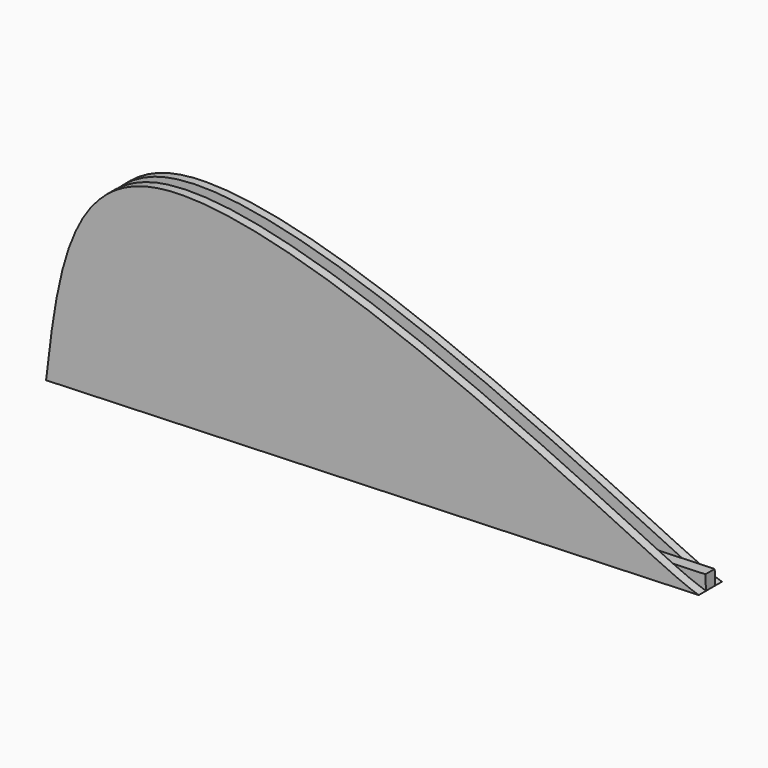
from build123d import *

# Parameters (mm, degrees)
F1_DEPTH = 5
F2_W     = 112.5773771023
F2_H     = 2
F3_DEPTH = 60.198
F4_DEPTH = 2.5


with BuildPart() as f1:
    # F0 (on Front) → F1 (new body)
    with BuildSketch(Plane.XZ):
        with BuildLine():
            add(Edge.make_bspline(
                [(-81.1586976051, -24.6675647795), (-79.2960930719, -8.5493928656), (-74.5904224448, 32.1714401323), (24.2241178131, -18.3339028992), (30.068828254, -20.2652569227), (31.3483215868, -20.6880588084)],
                knots=[0, 0, 0, 0, 0.3385017071, 0.8551882657, 1, 1, 1, 1], degree=3))
            Line((-81.1586976051, -24.6675647795), (31.3483215868, -20.6880588084))
        make_face()
    extrude(amount=F1_DEPTH)

    # F2 (on face) → F3 (cut)
    with BuildSketch(Plane(origin=(0.770018179, 0, -21.7696494672), x_dir=(0.9993750262, 0, 0.0353490734), z_dir=(0.0353490734, 0, -0.9993750262))):
        with Locations((-25.6912625539, 2.4448475558)):
            Rectangle(F2_W, F2_H)
    extrude(amount=-F3_DEPTH, mode=Mode.SUBTRACT)

    # F2 (on face) → F4 (join)
    with BuildSketch(Plane(origin=(0.770018179, 0, -21.7696494672), x_dir=(0.9993750262, 0, 0.0353490734), z_dir=(0.0353490734, 0, -0.9993750262))):
        with Locations((-25.6912625539, 2.4448475558)):
            Rectangle(F2_W, F2_H)
    extrude(amount=-F4_DEPTH)


solid = f1.part
